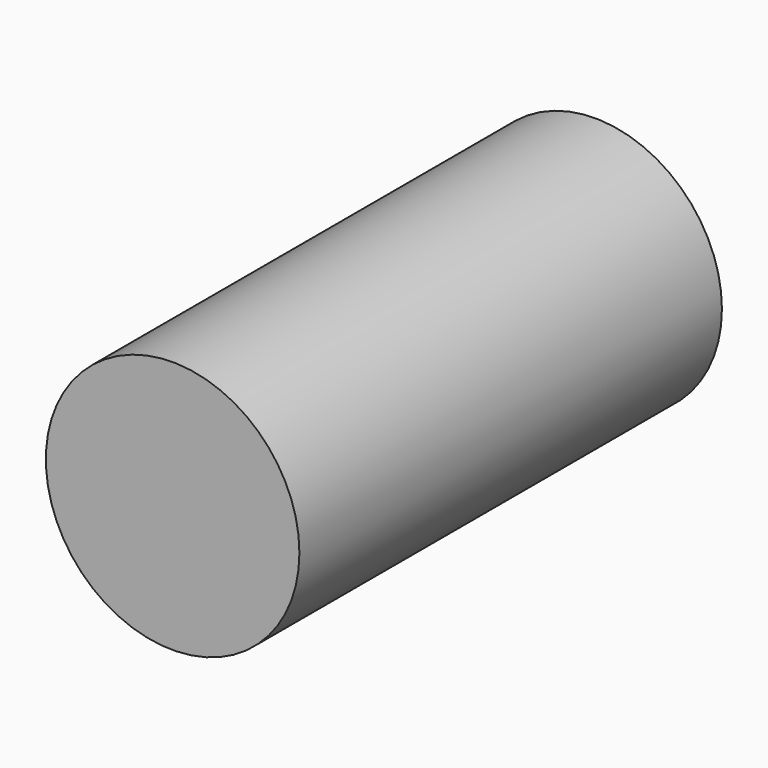
from build123d import *

# Parameters (mm, degrees)
F0_R     = 48.008406785
F1_DEPTH = 200
F3_D     = 25
F3_DEPTH = 60
F3_TIP   = 7.5107577378


with BuildPart() as f1:
    # F0 (on Front) → F1 (new body)
    with BuildSketch(Plane.XZ):
        Circle(F0_R)
    extrude(amount=F1_DEPTH)

    # F3 (one way)
    with BuildSketch(Plane.YZ):
        with Locations((-100, 0)):
            Circle(F3_D / 2)
    extrude(amount=-F3_DEPTH, mode=Mode.SUBTRACT)
    with Locations(Plane.YZ):
        with Locations((-100, 0)):
            with Locations((0, 0, -(F3_DEPTH + F3_TIP / 2))):  # 118° drill point
                Cone(0, F3_D / 2, F3_TIP, mode=Mode.SUBTRACT)


solid = f1.part
